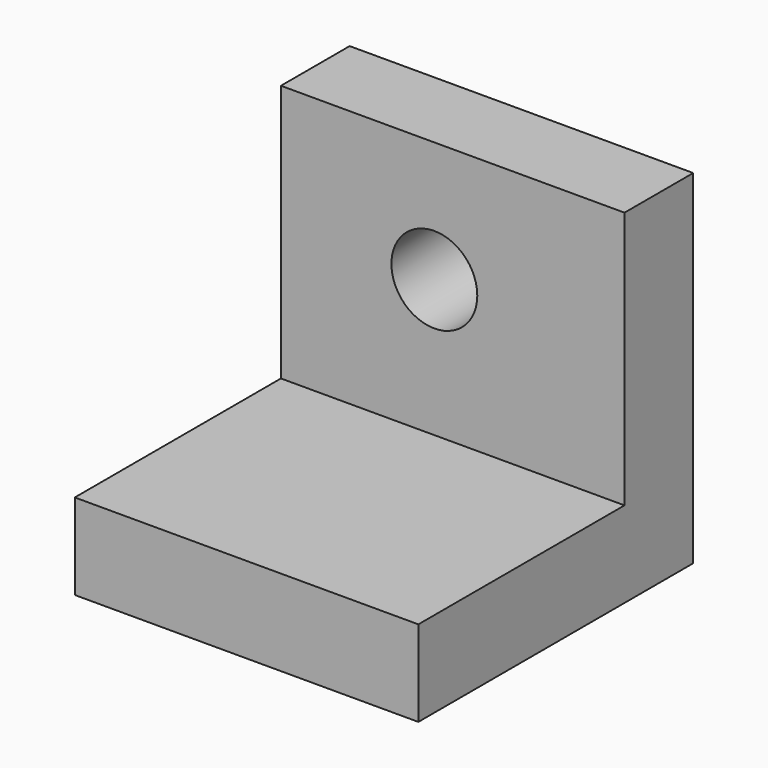
from build123d import *

# Parameters (mm, degrees)
F0_W     = 50.8
F0_H     = 38.1
F1_DEPTH = 12.7
F0_H_2   = 12.7
F2_DEPTH = 50.8
F3_R     = 6.35
F4_DEPTH = 12.7


with BuildPart() as f1:
    # F0 (on Top) → F1 (new body)
    with BuildSketch(Plane.XY):
        with Locations((-30.416981, -6.624007)):
            Rectangle(F0_W, F0_H)
    extrude(amount=F1_DEPTH)

    # F0 (on Top) → F2 (join)
    with BuildSketch(Plane.XY):
        with Locations((-30.416981, 18.775993)):
            Rectangle(F0_W, F0_H_2)
    extrude(amount=F2_DEPTH)

    # F3 (on face) → F4 (cut)
    with BuildSketch(Plane.XZ.offset(-12.425993)):
        with Locations((-33.133555, 32.930352)):
            Circle(F3_R)
    extrude(amount=-F4_DEPTH, mode=Mode.SUBTRACT)


solid = f1.part
